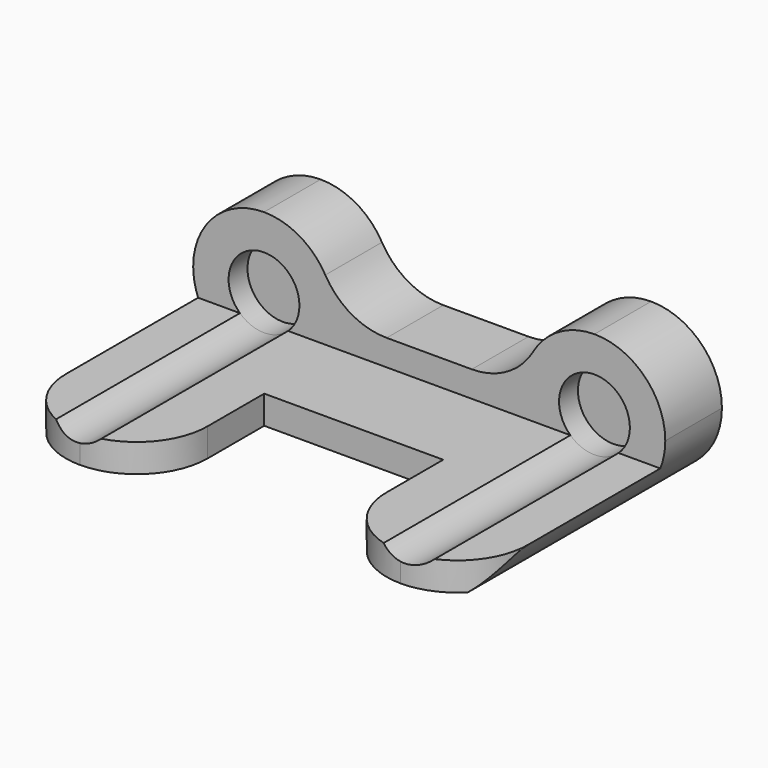
from build123d import *

# Parameters (mm, degrees)
F0_R      = 9.525
F1_DEPTH  = 25.4
F3_DEPTH  = 63.5
F4_DEPTH  = 46.228
F5_R      = 19.05
F6_R      = 9.525
F7_DEPTH  = 19.05
F8_DEPTH  = 6.35
F10_DEPTH = 25.4
F11_W     = 17.3040702939
F11_H     = 4.6345468581
F12_DEPTH = 12.7
F13_W     = 23.2714904292
F13_H     = 5.4139880085
F14_DEPTH = 12.7
F16_DEPTH = 25.4
F17_DEPTH = 25.4


with BuildPart() as f1:
    # F0 (on Front) → F1 (new body)
    with BuildSketch(Plane.XZ):
        with BuildLine():
            Line((-44.45, -19.05), (44.45, -19.05))
            ThreePointArc((44.45, -19.05), (30.9796158184, -13.4703841816), (25.4, 0))
            Line((25.4, 0), (-25.4, 0))
            ThreePointArc((-25.4, 0), (-30.9796158184, -13.4703841816), (-44.45, -19.05))
        make_face()
        with BuildLine():
            ThreePointArc((-63.5, 0), (-57.9203841816, -13.4703841816), (-44.45, -19.05))
            ThreePointArc((-44.45, -19.05), (-30.9796158184, -13.4703841816), (-25.4, 0))
            ThreePointArc((-25.4, 0), (-30.9796158184, 13.4703841816), (-44.45, 19.05))
            ThreePointArc((-44.45, 19.05), (-57.9203841816, 13.4703841816), (-63.5, 0))
        make_face()
        with Locations((-44.45, 0)):
            Circle(F0_R, mode=Mode.SUBTRACT)
        with BuildLine():
            ThreePointArc((25.4, 0), (30.9796158184, -13.4703841816), (44.45, -19.05))
            ThreePointArc((44.45, -19.05), (57.9203841816, -13.4703841816), (63.5, 0))
            ThreePointArc((63.5, 0), (57.9203841816, 13.4703841816), (44.45, 19.05))
            ThreePointArc((44.45, 19.05), (30.9796158184, 13.4703841816), (25.4, 0))
        make_face()
        with Locations((44.45, 0)):
            Circle(F0_R, mode=Mode.SUBTRACT)
    extrude(amount=F1_DEPTH)

    # F2 (on face) → F3 (join)
    with BuildSketch(Plane.XZ.offset(25.4)):
        with BuildLine():
            Line((-50.9257547823, -6.985), (-62.1732128859, -6.985))
            ThreePointArc((-62.1732128859, -6.985), (-59.9041022043, -11.1388161426), (-56.6809637805, -14.605))
            Line((-56.6809637805, -14.605), (56.6809637805, -14.605))
            ThreePointArc((56.6809637805, -14.605), (59.9041022043, -11.1388161426), (62.1732128859, -6.985))
            Line((62.1732128859, -6.985), (50.9257547823, -6.985))
            ThreePointArc((50.9257547823, -6.985), (44.45, -9.525), (37.9742452177, -6.985))
            Line((37.9742452177, -6.985), (-37.9742452177, -6.985))
            ThreePointArc((-37.9742452177, -6.985), (-44.45, -9.525), (-50.9257547823, -6.985))
        make_face()
    extrude(amount=F3_DEPTH)

    # F4 (cut): a face of the model
    f4_faces = [f1.faces().sort_by_distance(p)[0] for p in [
        (0, -25.4, -16.7601163622),
    ]]
    extrude(f4_faces, amount=-F4_DEPTH, mode=Mode.SUBTRACT)

    # F5
    f5_edges = [f1.edges().sort_by_distance(p)[0] for p in [
        (-25.4, -12.7, 0),
        (25.4, -12.7, 0),
    ]]
    fillet(f5_edges, radius=F5_R)

    # F6 (on face) → F7 (join)
    with BuildSketch(Plane(origin=(0, 0, 0), x_dir=(-1, 0, 0), z_dir=(0, 1, 0))):
        with Locations((-44.45, 0)):
            Circle(F6_R)
        with Locations((44.45, 0)):
            Circle(F6_R)
    extrude(amount=-F7_DEPTH)

    # F8 (cut): a face of the model
    f8_faces = [f1.faces().sort_by_distance(p)[0] for p in [
        (0, 0, -1.1785637601),
    ]]
    extrude(f8_faces, amount=-F8_DEPTH, mode=Mode.SUBTRACT)

    # F9 (on face) → F10 (cut)
    with BuildSketch(Plane.XY.offset(-6.985)):
        Polygon((24.0732128859, -69.85), (24.0732128859, -50.8), (-24.0732128859, -50.8), (-24.0732128859, -69.85), (-24.0732128859, -88.9), (24.0732128859, -88.9), align=None)
    extrude(amount=-F10_DEPTH, mode=Mode.SUBTRACT)

    # F11 (on face) → F12 (join)
    with BuildSketch(Plane.XZ.offset(88.9)):
        with Locations((-43.290130794, -9.3022734291)):
            Rectangle(F11_W, F11_H)
    extrude(amount=-F12_DEPTH)

    # F13 (on face) → F14 (join)
    with BuildSketch(Plane.XZ.offset(88.9)):
        with Locations((42.6594742664, -9.6919940042)):
            Rectangle(F13_W, F13_H)
    extrude(amount=-F14_DEPTH)

    # F15 (on face) → F16 (cut)
    with BuildSketch(Plane.XY.offset(-6.985)):
        with BuildLine():
            Line((62.1732128859, -88.9), (62.1732128859, -69.85))
            ThreePointArc((62.1732128859, -69.85), (56.5935970675, -83.3203841816), (43.1232128859, -88.9))
            Line((43.1232128859, -88.9), (50.9257547823, -88.9))
            Line((50.9257547823, -88.9), (54.295219481, -88.9))
            Line((54.295219481, -88.9), (62.1732128859, -88.9))
        make_face()
        with BuildLine():
            Line((37.9742452177, -88.9), (43.1232128859, -88.9))
            ThreePointArc((43.1232128859, -88.9), (29.6528287043, -83.3203841816), (24.0732128859, -69.85))
            Line((24.0732128859, -69.85), (24.0732128859, -88.9))
            Line((24.0732128859, -88.9), (31.0237290518, -88.9))
            Line((31.0237290518, -88.9), (37.9742452177, -88.9))
        make_face()
        with BuildLine():
            Line((-24.0732128859, -88.9), (-24.0732128859, -69.85))
            ThreePointArc((-24.0732128859, -69.85), (-29.6528287043, -83.3203841816), (-43.1232128859, -88.9))
            Line((-43.1232128859, -88.9), (-37.9742452177, -88.9))
            Line((-37.9742452177, -88.9), (-34.6380956471, -88.9))
            Line((-34.6380956471, -88.9), (-24.0732128859, -88.9))
        make_face()
        with BuildLine():
            Line((-50.9257547823, -88.9), (-43.1232128859, -88.9))
            ThreePointArc((-43.1232128859, -88.9), (-56.5935970675, -83.3203841816), (-62.1732128859, -69.85))
            Line((-62.1732128859, -69.85), (-62.1732128859, -88.9))
            Line((-62.1732128859, -88.9), (-51.942165941, -88.9))
            Line((-51.942165941, -88.9), (-50.9257547823, -88.9))
        make_face()
    extrude(amount=-F16_DEPTH, mode=Mode.SUBTRACT)

    # F17 (cut): faces of the model
    f17_faces = [f1.faces().sort_by_distance(p)[0] for p in [
        (44.45, -76.2, -8.0135872996),
        (-44.45, -76.2, -8.0135872996),
    ]]
    extrude(f17_faces, amount=-F17_DEPTH, mode=Mode.SUBTRACT)


solid = f1.part
